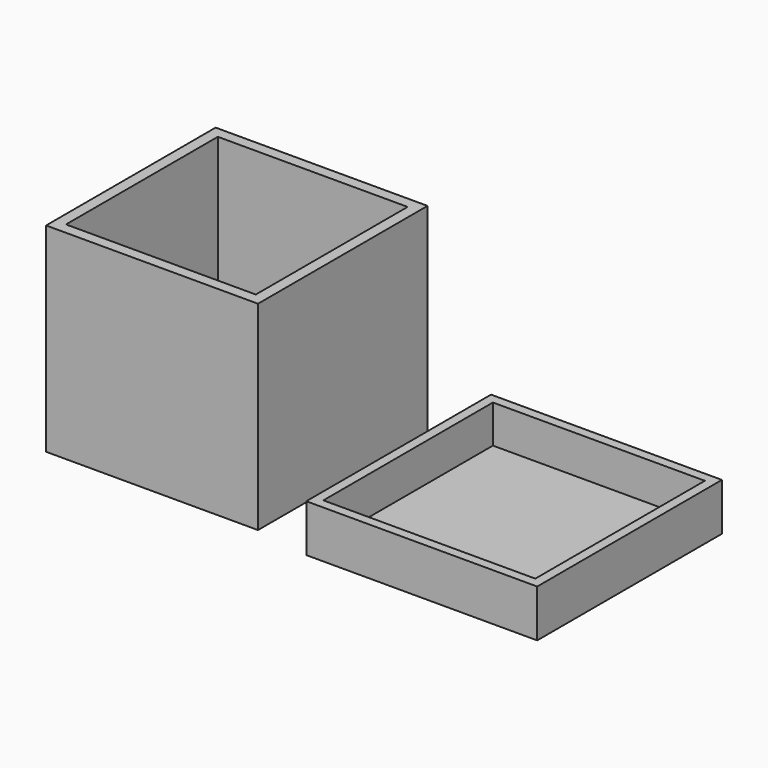
from build123d import *

# Parameters (mm, degrees)
F0_W     = 67
F0_H     = 67
F1_DEPTH = 31.5
F2_W     = 60
F2_H     = 60
F3_DEPTH = 60
F4_W     = 73
F4_H     = 73
F5_DEPTH = 15
F6_W     = 67
F6_H     = 67
F7_DEPTH = 12


with BuildPart() as f1:
    # F0 (on Top) → F1 (new body, symmetric)
    with BuildSketch(Plane.XY):
        Rectangle(F0_W, F0_H)
    extrude(amount=F1_DEPTH, both=True)

    # F2 (on face) → F3 (cut)
    with BuildSketch(Plane.XY.offset(31.5)):
        Rectangle(F2_W, F2_H)
    extrude(amount=-F3_DEPTH, mode=Mode.SUBTRACT)


with BuildPart() as f5:
    # F4 (on face) → F5 (new body)
    with BuildSketch(Plane(origin=(0, 0, -31.5), x_dir=(1, 0, 0), z_dir=(0, 0, -1))):
        with Locations((87.669559, 0)):
            Rectangle(F4_W, F4_H)
    extrude(amount=-F5_DEPTH)

    # F6 (on face) → F7 (cut)
    with BuildSketch(Plane.XY.offset(-16.5)):
        with Locations((87.669559, 0)):
            Rectangle(F6_W, F6_H)
    extrude(amount=-F7_DEPTH, mode=Mode.SUBTRACT)


solid = Compound([f1.part, f5.part])
